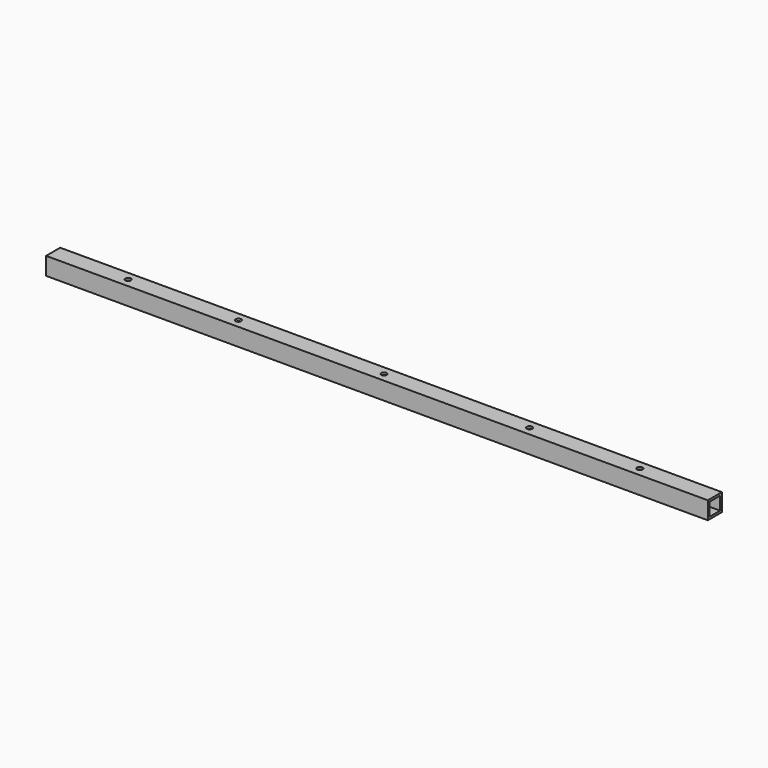
from build123d import *

# Parameters (mm, degrees)
F0_W     = 25.4
F0_H     = 25.4
F1_DEPTH = 952.5
F2_W     = 19.05
F2_H     = 19.05
F3_DEPTH = 952.501
F5_D     = 7.9375
F5_DEPTH = 17.4752
F5_TIP   = 2.3846655818


with BuildPart() as f1:
    # F0 (on Right) → F1 (new body)
    with BuildSketch(Plane.YZ):
        with Locations((-47.3075013936, 50.5391221166)):
            Rectangle(F0_W, F0_H)
    extrude(amount=F1_DEPTH)

    # F2 (on face) → F3 (cut, through all)
    with BuildSketch(Plane.YZ.offset(952.5)):
        with Locations((-47.3075013936, 50.5391221166)):
            Rectangle(F2_W, F2_H)
    extrude(amount=-F3_DEPTH, mode=Mode.SUBTRACT)

    # F5
    with Locations(Plane.XY.offset(63.2391221166)):
        with Locations((844.55, -47.3075013936), (685.8, -47.3075013936), (476.25, -47.3075013936), (266.7, -47.3075013936), (107.95, -47.3075013936)):
            Hole(F5_D / 2, depth=F5_DEPTH)
            with Locations((0, 0, -(F5_DEPTH + F5_TIP / 2))):  # 118° drill point
                Cone(0, F5_D / 2, F5_TIP, mode=Mode.SUBTRACT)


solid = f1.part
